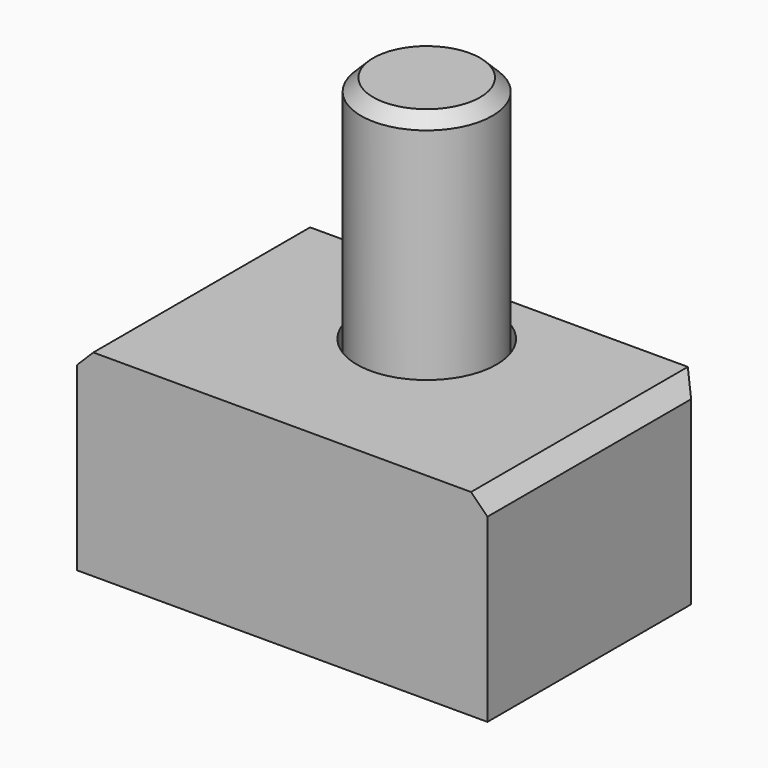
from build123d import *

# Parameters (mm, degrees)
F0_R     = 4
F1_DEPTH = 26
F0_R_2   = 4.25
F2_DEPTH = 1
F3_DEPTH = 12
F4_SIZE  = 0.75
F5_SIZE  = 1


with BuildPart() as f1:
    # F0 (on Top) → F1 (new body)
    with BuildSketch(Plane.XY):
        Circle(F0_R)
    extrude(amount=F1_DEPTH)

    # F0 (on Top) → F2 (join)
    with BuildSketch(Plane.XY):
        with BuildLine():
            Line((4.3301270189, 5.5), (-4.3301270189, 5.5))
            ThreePointArc((-4.3301270189, 5.5), (-3.0568865589, -6.2972569081), (7, 0))
            ThreePointArc((7, 0), (6.2972569081, 3.0568865589), (4.3301270189, 5.5))
        make_face()
        Circle(F0_R_2, mode=Mode.SUBTRACT)
        Circle(F0_R_2)
        Circle(F0_R, mode=Mode.SUBTRACT)
        Circle(F0_R)
    extrude(amount=F2_DEPTH)

    # F4
    f4_edges = [f1.edges().sort_by_distance(p)[0] for p in [
        (-4, 0, 26),
    ]]
    chamfer(f4_edges, length=F4_SIZE)


with BuildPart() as f3:
    # F0 (on Top) → F3 (new body)
    with BuildSketch(Plane.XY):
        with BuildLine():
            Line((-5.0990195136, 5.5), (-12.5, 5.5))
            Line((-12.5, 5.5), (-12.5, -11))
            Line((-12.5, -11), (12.5, -11))
            Line((12.5, -11), (12.5, 5.5))
            Line((12.5, 5.5), (5.0990195136, 5.5))
            ThreePointArc((5.0990195136, 5.5), (6.8735960876, 3.0006127414), (7.5, 0))
            ThreePointArc((7.5, 0), (-3.0006127414, -6.8735960876), (-5.0990195136, 5.5))
        make_face()
        with BuildLine():
            Line((-4.3301270189, 5.5), (-5.0990195136, 5.5))
            ThreePointArc((-5.0990195136, 5.5), (-3.0006127414, -6.8735960876), (7.5, 0))
            ThreePointArc((7.5, 0), (6.8735960876, 3.0006127414), (5.0990195136, 5.5))
            Line((5.0990195136, 5.5), (4.3301270189, 5.5))
            ThreePointArc((4.3301270189, 5.5), (6.2972569081, 3.0568865589), (7, 0))
            ThreePointArc((7, 0), (-3.0568865589, -6.2972569081), (-4.3301270189, 5.5))
        make_face()
        with BuildLine():
            Line((4.3301270189, 5.5), (-4.3301270189, 5.5))
            ThreePointArc((-4.3301270189, 5.5), (-3.0568865589, -6.2972569081), (7, 0))
            ThreePointArc((7, 0), (6.2972569081, 3.0568865589), (4.3301270189, 5.5))
        make_face()
        Circle(F0_R_2, mode=Mode.SUBTRACT)
    extrude(amount=F3_DEPTH)

    # F5
    f5_edges = [f3.edges().sort_by_distance(p)[0] for p in [
        (12.5, -2.75, 12),
        (-12.5, -2.75, 12),
        (12.5, 5.5, 6),
        (-12.5, 5.5, 6),
    ]]
    chamfer(f5_edges, length=F5_SIZE)


solid = Compound([f1.part, f3.part])
